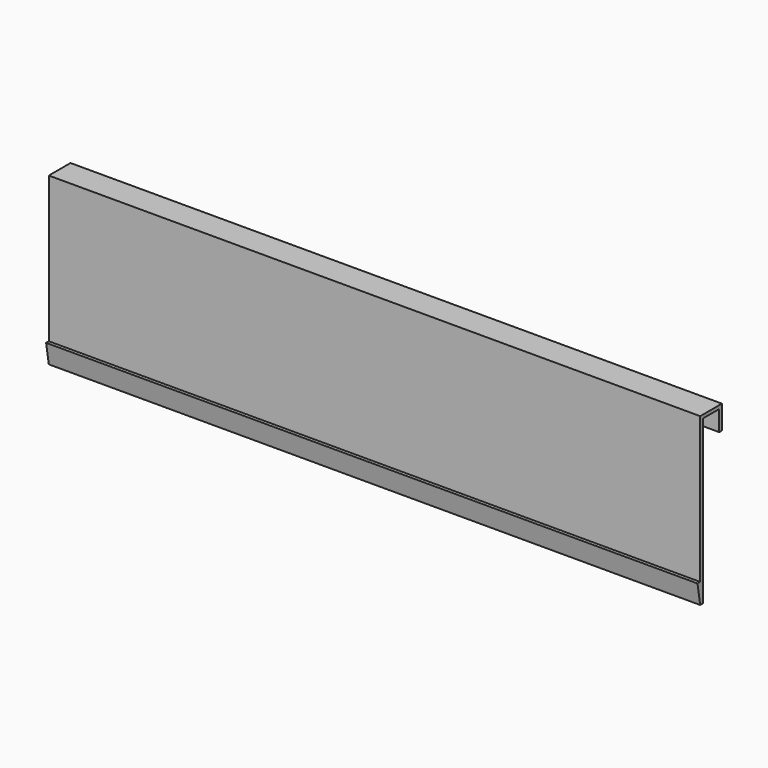
from build123d import *

# Parameters (mm, degrees)
F1_DEPTH = 1219.2
F2_DEPTH = 1219.2


with BuildPart() as f1:
    # F0 (on Right) → F1 (new body)
    with BuildSketch(Plane.YZ):
        Polygon((-44.45, -144.886554), (-44.45, 159.913446), (-6.35, 159.913446), (-6.35, 121.813446), (0, 121.813446), (0, 166.263446), (-50.8, 166.263446), (-50.8, -106.786554), (-50.8, -144.886554), align=None)
    extrude(amount=F1_DEPTH)

    # F0 (on Right) → F2 (join)
    with BuildSketch(Plane.YZ):
        Polygon((-57.15, -106.786554), (-50.8, -144.886554), (-50.8, -106.786554), align=None)
    extrude(amount=F2_DEPTH)


solid = f1.part
